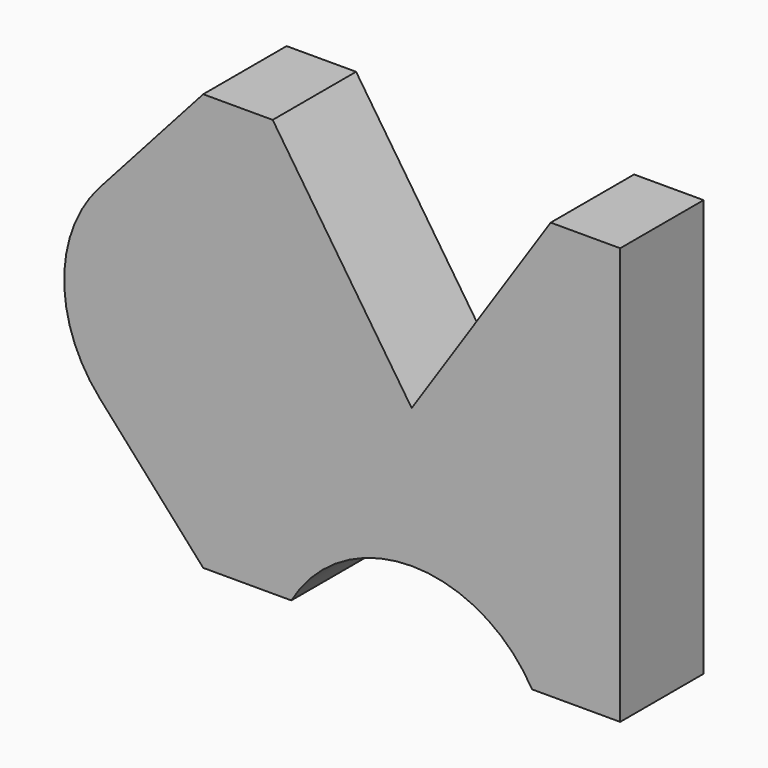
from build123d import *

# Parameters (mm, degrees)
F1_DEPTH = 15


with BuildPart() as f1:
    # F0 (on Front) → F1 (new body)
    with BuildSketch(Plane.XZ):
        with BuildLine():
            Line((-20, 30), (-30, 30))
            Line((-30, 30), (-44.90712, 13.333333))
            ThreePointArc((-44.90712, 13.333333), (-50, 0), (-44.90712, -13.333333))
            Line((-44.90712, -13.333333), (-30, -30))
            Line((-30, -30), (-17.320508, -30))
            ThreePointArc((-17.320508, -30), (0, -20), (17.320508, -30))
            Line((17.320508, -30), (30, -30))
            Line((30, -30), (30, 30))
            Line((30, 30), (20, 30))
            Line((20, 30), (0, 0))
            Line((0, 0), (-20, 30))
        make_face()
    extrude(amount=F1_DEPTH)


solid = f1.part
